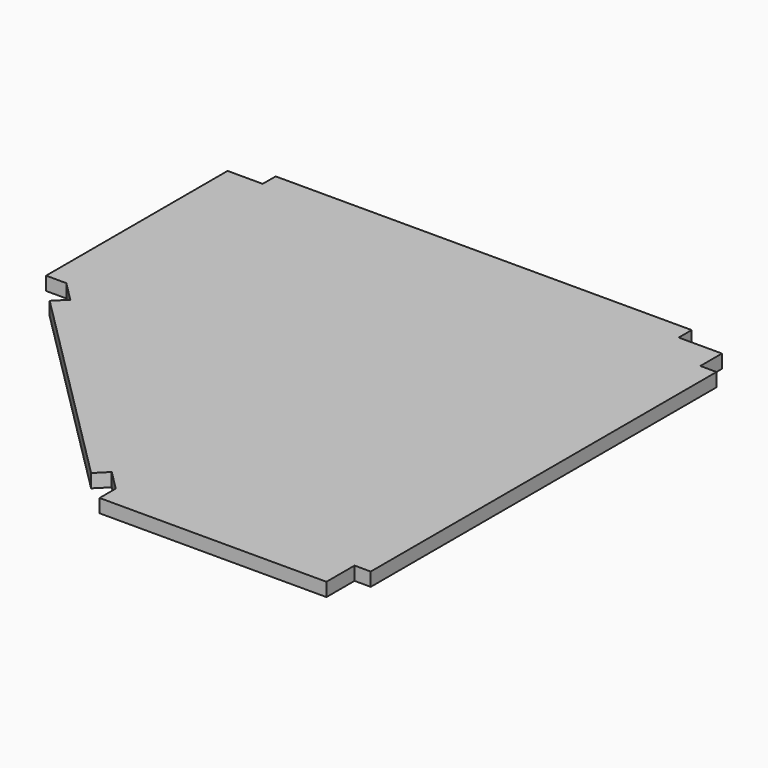
from build123d import *

# Parameters (mm, degrees)
F1_DEPTH = 15.875


with BuildPart() as f1:
    # F0 (on Top) → F1 (new body)
    with BuildSketch(Plane.XY):
        Polygon((-71.04996, 102.689488), (172.539488, -140.89996), (186.009872, -127.429575), (209.55, -150.969703), (209.55, -174.735472), (476.25, -174.735472), (476.25, -133.460472), (495.3, -133.460472), (495.3, 374.65), (476.25, 374.65), (476.25, 406.4), (425.45, 406.4), (425.45, 425.45), (-63.610472, 425.45), (-63.610472, 406.4), (-104.885472, 406.4), (-104.885472, 139.7), (-81.119703, 139.7), (-57.579575, 116.159872), align=None)
    extrude(amount=F1_DEPTH)


solid = f1.part
